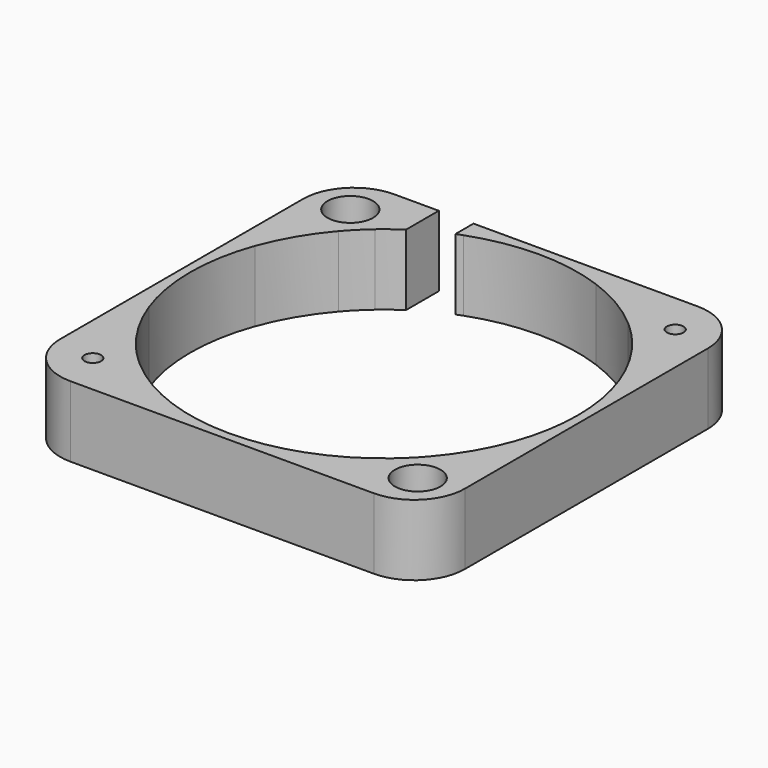
from build123d import *

# Parameters (mm, degrees)
F0_R      = 2
F1_DEPTH  = 7
F2_R      = 5
F3_W      = 3.4330971539
F3_H      = 4.5472582311
F4_DEPTH  = 25
F5_R      = 2.25
F6_DEPTH  = 25
F7_R      = 2.25
F7_R_2    = 0.82
F8_DEPTH  = 2.5
F9_DEPTH  = 4.5
F10_DEPTH = 2


with BuildPart() as f1:
    # F0 (on Top) → F1 (new body)
    with BuildSketch(Plane.XY):
        with BuildLine():
            Line((-23.9209998254, 63.5463201136), (-21.9209998254, 63.5463201136))
            Line((-21.9209998254, 63.5463201136), (-21.9209998254, 71.0463201136))
            Line((-21.9209998254, 71.0463201136), (-29.4209998254, 71.0463201136))
            Line((-29.4209998254, 71.0463201136), (-29.4209998254, 69.0463201136))
            Line((-29.4209998254, 69.0463201136), (-29.4209998254, 65.5539904986))
            ThreePointArc((-29.4209998254, 65.5539904986), (-28.3799049656, 64.5874149733), (-27.4133294404, 63.5463201136))
            Line((-27.4133294404, 63.5463201136), (-23.9209998254, 63.5463201136))
        make_face()
        with Locations((-25.8659998254, 66.9521987438)):
            Circle(F0_R, mode=Mode.SUBTRACT)
        with BuildLine():
            Line((-29.4209998254, 65.5539904986), (-29.4209998254, 69.0463201136))
            Line((-29.4209998254, 69.0463201136), (-35.3847547259, 69.0463201136))
            ThreePointArc((-35.3847547259, 69.0463201136), (-32.244029824, 67.5714147152), (-29.4209998254, 65.5539904986))
        make_face()
        with BuildLine():
            Line((-29.4209998254, 69.0463201136), (-29.4209998254, 71.0463201136))
            Line((-29.4209998254, 71.0463201136), (-54.4209998254, 71.0463201136))
            Line((-54.4209998254, 71.0463201136), (-54.4209998254, 69.0463201136))
            Line((-54.4209998254, 69.0463201136), (-48.4572449248, 69.0463201136))
            ThreePointArc((-48.4572449248, 69.0463201136), (-41.9209998254, 70.1963201136), (-35.3847547259, 69.0463201136))
            Line((-35.3847547259, 69.0463201136), (-29.4209998254, 69.0463201136))
        make_face()
        with BuildLine():
            Line((-48.4572449248, 69.0463201136), (-54.4209998254, 69.0463201136))
            Line((-54.4209998254, 69.0463201136), (-54.4209998254, 65.5539904986))
            ThreePointArc((-54.4209998254, 65.5539904986), (-51.5979698267, 67.5714147152), (-48.4572449248, 69.0463201136))
        make_face()
        with BuildLine():
            Line((-61.9209998254, 71.0463201136), (-61.9209998254, 63.5463201136))
            Line((-61.9209998254, 63.5463201136), (-59.9209998254, 63.5463201136))
            Line((-59.9209998254, 63.5463201136), (-56.4286702104, 63.5463201136))
            ThreePointArc((-56.4286702104, 63.5463201136), (-55.4620946851, 64.5874149733), (-54.4209998254, 65.5539904986))
            Line((-54.4209998254, 65.5539904986), (-54.4209998254, 69.0463201136))
            Line((-54.4209998254, 69.0463201136), (-54.4209998254, 71.0463201136))
            Line((-54.4209998254, 71.0463201136), (-61.9209998254, 71.0463201136))
        make_face()
        with Locations((-57.9759998254, 66.9521987438)):
            Circle(F0_R, mode=Mode.SUBTRACT)
        with BuildLine():
            Line((-56.4286702104, 63.5463201136), (-59.9209998254, 63.5463201136))
            Line((-59.9209998254, 63.5463201136), (-59.9209998254, 57.582565213))
            ThreePointArc((-59.9209998254, 57.582565213), (-58.446094427, 60.7232901149), (-56.4286702104, 63.5463201136))
        make_face()
        with BuildLine():
            Line((-61.9209998254, 63.5463201136), (-61.9209998254, 38.5463201136))
            Line((-61.9209998254, 38.5463201136), (-59.9209998254, 38.5463201136))
            Line((-59.9209998254, 38.5463201136), (-59.9209998254, 44.5100750141))
            ThreePointArc((-59.9209998254, 44.5100750141), (-61.0709998254, 51.0463201136), (-59.9209998254, 57.582565213))
            Line((-59.9209998254, 57.582565213), (-59.9209998254, 63.5463201136))
            Line((-59.9209998254, 63.5463201136), (-61.9209998254, 63.5463201136))
        make_face()
        with BuildLine():
            Line((-59.9209998254, 44.5100750141), (-59.9209998254, 38.5463201136))
            Line((-59.9209998254, 38.5463201136), (-56.4286702104, 38.5463201136))
            ThreePointArc((-56.4286702104, 38.5463201136), (-58.446094427, 41.3693501123), (-59.9209998254, 44.5100750141))
        make_face()
        with BuildLine():
            Line((-61.9209998254, 31.0463201136), (-54.4209998254, 31.0463201136))
            Line((-54.4209998254, 31.0463201136), (-54.4209998254, 33.0463201136))
            Line((-54.4209998254, 33.0463201136), (-54.4209998254, 36.5386497286))
            ThreePointArc((-54.4209998254, 36.5386497286), (-55.4620946851, 37.5052252539), (-56.4286702104, 38.5463201136))
            Line((-56.4286702104, 38.5463201136), (-59.9209998254, 38.5463201136))
            Line((-59.9209998254, 38.5463201136), (-61.9209998254, 38.5463201136))
            Line((-61.9209998254, 38.5463201136), (-61.9209998254, 31.0463201136))
        make_face()
        with Locations((-57.9759998254, 35.1404414833)):
            Circle(F0_R, mode=Mode.SUBTRACT)
        with BuildLine():
            Line((-54.4209998254, 36.5386497286), (-54.4209998254, 33.0463201136))
            Line((-54.4209998254, 33.0463201136), (-48.4572449248, 33.0463201136))
            ThreePointArc((-48.4572449248, 33.0463201136), (-51.5979698267, 34.5212255119), (-54.4209998254, 36.5386497286))
        make_face()
        with BuildLine():
            Line((-54.4209998254, 31.0463201136), (-29.4209998254, 31.0463201136))
            Line((-29.4209998254, 31.0463201136), (-29.4209998254, 33.0463201136))
            Line((-29.4209998254, 33.0463201136), (-35.3847547259, 33.0463201136))
            ThreePointArc((-35.3847547259, 33.0463201136), (-41.9209998254, 31.8963201136), (-48.4572449248, 33.0463201136))
            Line((-48.4572449248, 33.0463201136), (-54.4209998254, 33.0463201136))
            Line((-54.4209998254, 33.0463201136), (-54.4209998254, 31.0463201136))
        make_face()
        with BuildLine():
            Line((-35.3847547259, 33.0463201136), (-29.4209998254, 33.0463201136))
            Line((-29.4209998254, 33.0463201136), (-29.4209998254, 36.5386497286))
            ThreePointArc((-29.4209998254, 36.5386497286), (-32.244029824, 34.5212255119), (-35.3847547259, 33.0463201136))
        make_face()
        with BuildLine():
            Line((-29.4209998254, 31.0463201136), (-21.9209998254, 31.0463201136))
            Line((-21.9209998254, 31.0463201136), (-21.9209998254, 38.5463201136))
            Line((-21.9209998254, 38.5463201136), (-23.9209998254, 38.5463201136))
            Line((-23.9209998254, 38.5463201136), (-27.4133294404, 38.5463201136))
            ThreePointArc((-27.4133294404, 38.5463201136), (-28.3799049656, 37.5052252539), (-29.4209998254, 36.5386497286))
            Line((-29.4209998254, 36.5386497286), (-29.4209998254, 33.0463201136))
            Line((-29.4209998254, 33.0463201136), (-29.4209998254, 31.0463201136))
        make_face()
        with Locations((-25.8659998254, 35.1404414833)):
            Circle(F0_R, mode=Mode.SUBTRACT)
        with BuildLine():
            Line((-27.4133294404, 38.5463201136), (-23.9209998254, 38.5463201136))
            Line((-23.9209998254, 38.5463201136), (-23.9209998254, 44.5100750141))
            ThreePointArc((-23.9209998254, 44.5100750141), (-25.3959052237, 41.3693501123), (-27.4133294404, 38.5463201136))
        make_face()
        with BuildLine():
            Line((-23.9209998254, 38.5463201136), (-21.9209998254, 38.5463201136))
            Line((-21.9209998254, 38.5463201136), (-21.9209998254, 63.5463201136))
            Line((-21.9209998254, 63.5463201136), (-23.9209998254, 63.5463201136))
            Line((-23.9209998254, 63.5463201136), (-23.9209998254, 57.582565213))
            ThreePointArc((-23.9209998254, 57.582565213), (-23.0606909732, 54.3646404718), (-22.7709998254, 51.0463201136))
            ThreePointArc((-22.7709998254, 51.0463201136), (-23.0606909732, 47.7279997553), (-23.9209998254, 44.5100750141))
            Line((-23.9209998254, 44.5100750141), (-23.9209998254, 38.5463201136))
        make_face()
        with BuildLine():
            Line((-23.9209998254, 57.582565213), (-23.9209998254, 63.5463201136))
            Line((-23.9209998254, 63.5463201136), (-27.4133294404, 63.5463201136))
            ThreePointArc((-27.4133294404, 63.5463201136), (-25.3959052237, 60.7232901149), (-23.9209998254, 57.582565213))
        make_face()
    extrude(amount=F1_DEPTH)

    # F2
    f2_edges = [f1.edges().sort_by_distance(p)[0] for p in [
        (-21.921, 31.04632, 3.5),
        (-61.921, 31.04632, 3.5),
        (-21.921, 71.04632, 3.5),
        (-61.921, 71.04632, 3.5),
    ]]
    fillet(f2_edges, radius=F2_R)

    # F3 (on face) → F4 (cut)
    with BuildSketch(Plane.XY.offset(7)):
        with Locations((-50.7930722088, 68.772690998)):
            Rectangle(F3_W, F3_H)
    extrude(amount=-F4_DEPTH, mode=Mode.SUBTRACT)

    # F5 (on face) → F6 (cut)
    with BuildSketch(Plane.XY.offset(7)):
        with Locations((-57.9759998254, 66.9521987438)):
            Circle(F5_R)
        with Locations((-25.8659998254, 66.9521987438)):
            Circle(F5_R)
        with Locations((-25.8659998254, 35.1404414833)):
            Circle(F5_R)
        with Locations((-57.9759998254, 35.1404414833)):
            Circle(F5_R)
    extrude(amount=-F6_DEPTH, mode=Mode.SUBTRACT)

    # F7 (on face) → F8 (join)
    with BuildSketch(Plane(origin=(0, 0, 0), x_dir=(1, 0, 0), z_dir=(0, 0, -1))):
        with Locations((-25.8659998254, -66.9521987438)):
            Circle(F7_R)
        with Locations((-25.8659998254, -66.9521987438)):
            Circle(F7_R_2, mode=Mode.SUBTRACT)
        with Locations((-57.9759998254, -66.9521987438)):
            Circle(F7_R)
        with Locations((-57.9759998254, -66.9521987438)):
            Circle(F7_R_2, mode=Mode.SUBTRACT)
        with Locations((-57.9759998254, -35.1404414833)):
            Circle(F7_R)
        with Locations((-57.9759998254, -35.1404414833)):
            Circle(F7_R_2, mode=Mode.SUBTRACT)
        with Locations((-25.8659998254, -35.1404414833)):
            Circle(F7_R)
        with Locations((-25.8659998254, -35.1404414833)):
            Circle(F7_R_2, mode=Mode.SUBTRACT)
    extrude(amount=-F8_DEPTH)

    # F9 (add): faces of the model
    f9_faces = [f1.faces().sort_by_distance(p)[0] for p in [
        (-28.0523602151, 66.9521987438, 2.5),
        (-60.1623602151, 35.1404414833, 2.5),
    ]]
    extrude(f9_faces, amount=F9_DEPTH)

    # F10 (add): faces of the model
    f10_faces = [f1.faces().sort_by_distance(p)[0] for p in [
        (-60.1623602151, 66.9521987438, 2.5),
        (-28.0523602151, 35.1404414833, 2.5),
    ]]
    extrude(f10_faces, amount=F10_DEPTH)


solid = f1.part
